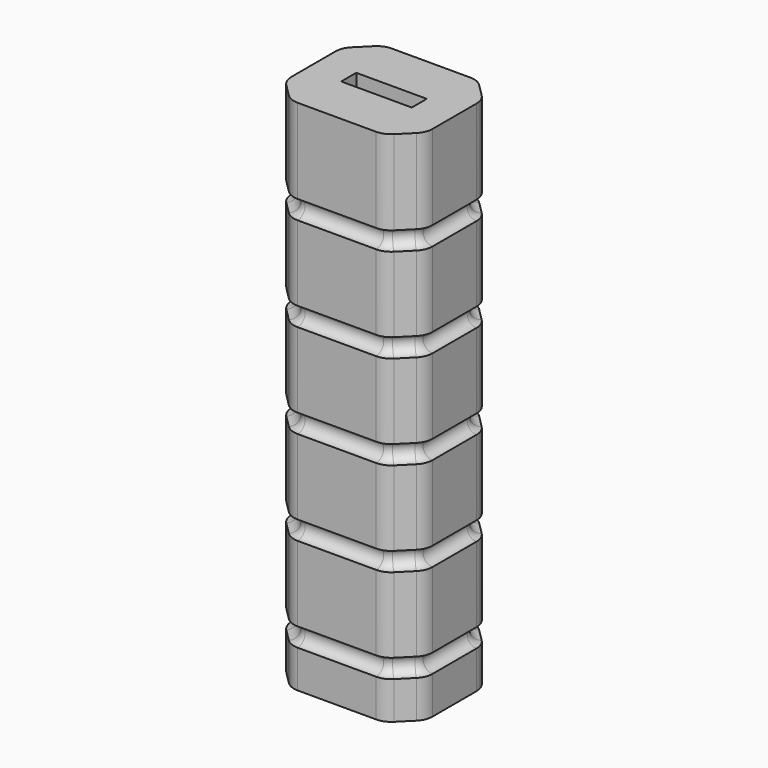
from build123d import *

# Parameters (mm, degrees)
F0_W     = 30
F0_H     = 25
F1_DEPTH = 110
F2_SIZE  = 5
F3_R     = 4
F4_W     = 15
F4_H     = 4
F5_DEPTH = 50
F16_R    = 2


with BuildPart() as f1:
    # F0 (on Top) → F1 (new body)
    with BuildSketch(Plane.XY):
        Rectangle(F0_W, F0_H)
    extrude(amount=F1_DEPTH)

    # F2
    f2_edges = [f1.edges().sort_by_distance(p)[0] for p in [
        (-15, -12.5, 55),
        (-15, 12.5, 55),
        (15, -12.5, 55),
        (15, 12.5, 55),
    ]]
    chamfer(f2_edges, length=F2_SIZE)

    # F3
    f3_edges = [f1.edges().sort_by_distance(p)[0] for p in [
        (10, -12.5, 55),
        (15, -7.5, 55),
        (-10, -12.5, 55),
        (-15, -7.5, 55),
        (-15, 7.5, 55),
        (-10, 12.5, 55),
        (10, 12.5, 55),
        (15, 7.5, 55),
    ]]
    fillet(f3_edges, radius=F3_R)

    # F4 (on face) → F5 (cut)
    with BuildSketch(Plane.XY.offset(110)):
        Rectangle(F4_W, F4_H)
    extrude(amount=-F5_DEPTH, mode=Mode.SUBTRACT)

    # F17: sweep along a path in F11
    with BuildLine(Plane.XY.offset(90)) as f17_path:
        Line((-11.1715728753, 11.3284271247), (-13.8284271247, 8.6715728753))
        ThreePointArc((-13.8284271247, 8.6715728753), (-14.69551813, 7.37387948), (-15, 5.8431457505))
        Line((-15, 5.8431457505), (-15, -5.8431457505))
        ThreePointArc((-15, -5.8431457505), (-14.69551813, -7.37387948), (-13.8284271247, -8.6715728753))
        Line((-13.8284271247, -8.6715728753), (-11.1715728753, -11.3284271247))
        ThreePointArc((-11.1715728753, -11.3284271247), (-9.87387948, -12.19551813), (-8.3431457505, -12.5))
        Line((-8.3431457505, -12.5), (8.3431457505, -12.5))
        ThreePointArc((8.3431457505, -12.5), (9.87387948, -12.19551813), (11.1715728753, -11.3284271247))
        Line((11.1715728753, -11.3284271247), (13.8284271247, -8.6715728753))
        ThreePointArc((13.8284271247, -8.6715728753), (14.69551813, -7.37387948), (15, -5.8431457505))
        Line((15, -5.8431457505), (15, 5.8431457505))
        ThreePointArc((15, 5.8431457505), (14.69551813, 7.37387948), (13.8284271247, 8.6715728753))
        Line((13.8284271247, 8.6715728753), (11.1715728753, 11.3284271247))
        ThreePointArc((11.1715728753, 11.3284271247), (9.87387948, 12.19551813), (8.3431457505, 12.5))
        Line((8.3431457505, 12.5), (-8.3431457505, 12.5))
        ThreePointArc((-8.3431457505, 12.5), (-9.87387948, 12.19551813), (-11.1715728753, 11.3284271247))
    # F16 (on Front) → F17 (sweep, cut)
    with BuildSketch(Plane.XZ):
        with Locations((-15, 90)):
            Circle(F16_R)
        with Locations((-15, 70)):
            Circle(F16_R)
        with Locations((-15, 50)):
            Circle(F16_R)
        with Locations((-15, 30)):
            Circle(F16_R)
        with Locations((-15, 10)):
            Circle(F16_R)
    sweep(path=f17_path.line, mode=Mode.SUBTRACT)


solid = f1.part
